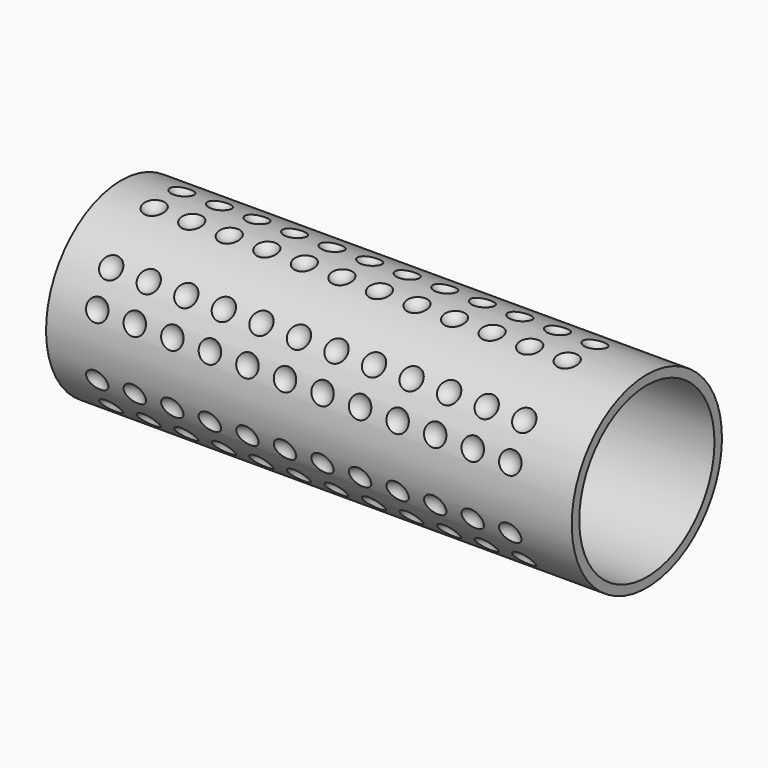
from build123d import *

# Parameters (mm, degrees)
ARRAY001_X_COUNT = 12
ARRAY001_X_PITCH = 2
ARRAY001_Y_COUNT = 2
ARRAY001_Y_PITCH = 2
ARRAY002_COUNT   = 6
SKETCH008_W      = 28
SKETCH008_H      = 0.5


with BuildPart() as array002:
    # Sphere001 → Sphere001 (revolve)
    with BuildSketch(Plane(origin=(13, 1, 5.3), x_dir=(1, 0, 0), z_dir=(0, -1, 0))):
        with BuildLine():
            ThreePointArc((0, -0.7), (0.7, 0), (0, 0.7))
            Line((0, 0.7), (0, -0.7))
        make_face()
    revolve(axis=Axis((13, 1, 5.3), (0, 0, 1)))

    # Array001 X: Array002 ×12


with BuildPart() as array002_1:
    add(array002.part)
    with Locations(*[(i * ARRAY001_X_PITCH, 0, 0) for i in range(1, ARRAY001_X_COUNT)]):
        add(array002.part)

    # Array001 Y: Array002 ×2


with BuildPart() as array002_2:
    add(array002_1.part)
    with Locations(*[(0, -i * ARRAY001_Y_PITCH, 0) for i in range(1, ARRAY001_Y_COUNT)]):
        add(array002_1.part)

    # Array002: Array002 ×6 about axis
    array002_axis = Axis((0, 0, 0), (1, 0, 0))


with BuildPart() as array002_3:
    add(array002_2.part)
    for i in range(1, ARRAY002_COUNT):
        add(array002_2.part.rotate(array002_axis, i * 360 / ARRAY002_COUNT))


with BuildPart() as cut:
    # Sketch008 → Revolution005 (revolve)
    with BuildSketch(Plane.XZ):
        with Locations((24.5, 4.75)):
            Rectangle(SKETCH008_W, SKETCH008_H)
    revolve(axis=Axis((0, 0, 0), (1, 0, 0)))

    # Cut: cut Array002
    add(array002_3.part, mode=Mode.SUBTRACT)


solid = cut.part
